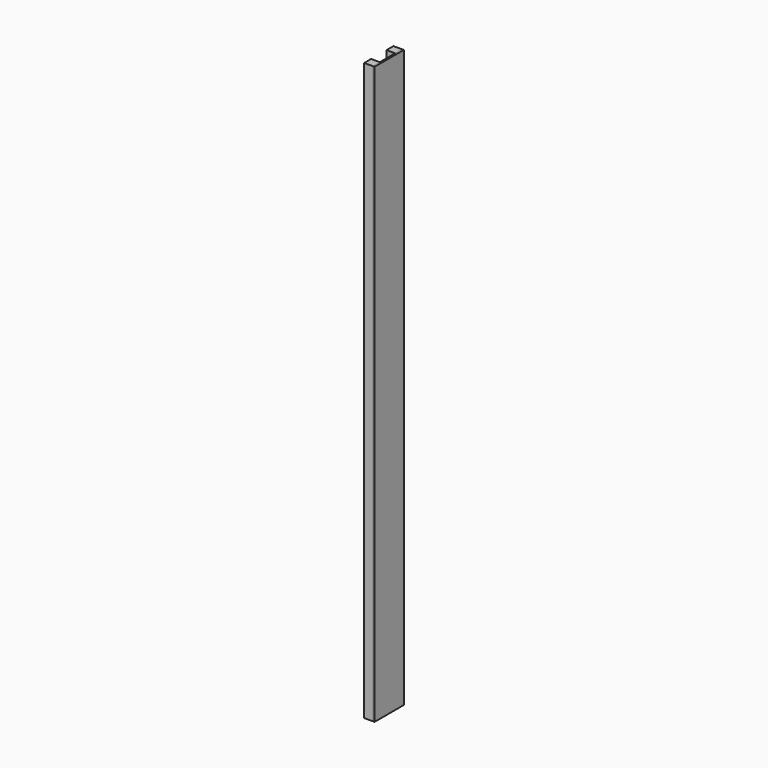
from build123d import *

# Parameters (mm, degrees)
F0_W     = 45
F0_H     = 45
F1_DEPTH = 3000
F2_DEPTH = 3000


with BuildPart() as f1:
    # F0 (on Top) → F1 (new body)
    with BuildSketch(Plane.XY):
        with Locations((-31.5, 22.5)):
            Rectangle(F0_W, F0_H)
        with Locations((-31.5, 167.5)):
            Rectangle(F0_W, F0_H)
    extrude(amount=F1_DEPTH)


with BuildPart() as f2:
    # F0 (on Top) → F2 (new body)
    with BuildSketch(Plane.XY):
        Polygon((-9, 0), (0, 0), (0, 190), (-9, 190), (-9, 145), (-9, 45), align=None)
    extrude(amount=F2_DEPTH)


solid = Compound([f1.part, f2.part])
